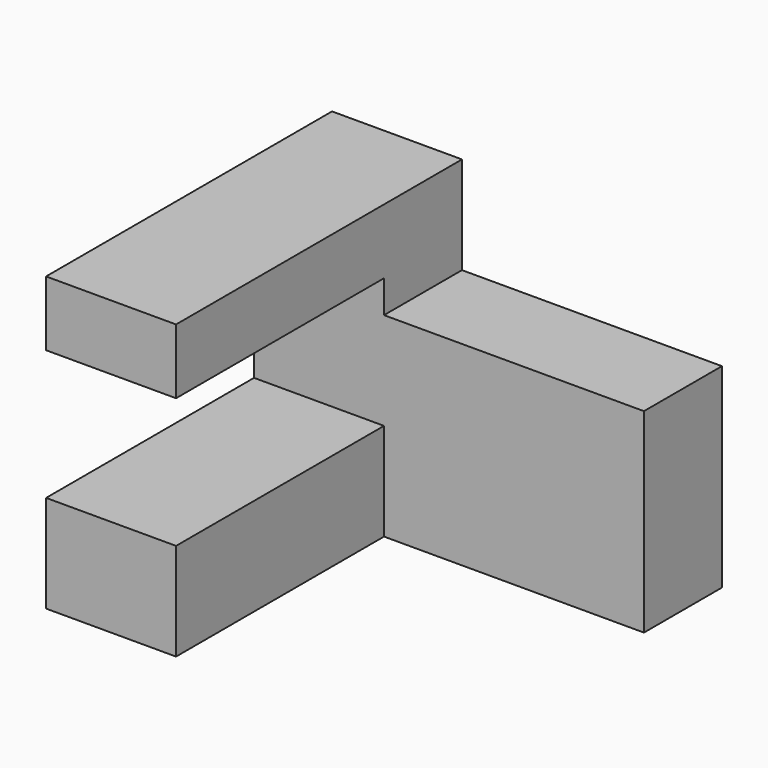
from build123d import *

# Parameters (mm, degrees)
F0_W     = 40
F0_H     = 15
F1_DEPTH = 20
F2_DEPTH = 60


with BuildPart() as f1:
    # F0 (on Right) → F1 (new body)
    with BuildSketch(Plane.YZ):
        Polygon((-15, 30), (0, 30), (0, 45), (-55, 45), (-55, 35), (-15, 35), align=None)
        with Locations((-35, 7.5)):
            Rectangle(F0_W, F0_H)
    extrude(amount=F1_DEPTH)

    # F0 (on Right) → F2 (join)
    with BuildSketch(Plane.YZ):
        Polygon((-15, 0), (0, 0), (0, 30), (-15, 30), (-15, 15), align=None)
    extrude(amount=F2_DEPTH)


solid = f1.part
